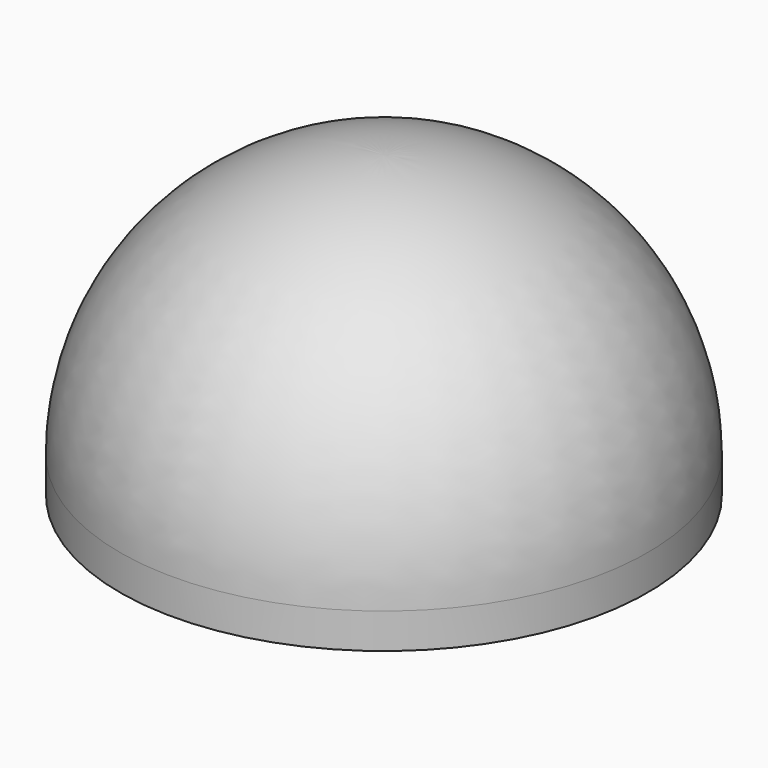
from build123d import *


with BuildPart() as f1:
    # F0 (on Front) → F1 (revolve)
    with BuildSketch(Plane.XZ):
        with BuildLine():
            Line((-2.5, 6), (0, 6))
            Line((0, 6), (0, 8.5))
            ThreePointArc((0, 8.5), (-5.303301, 6.303301), (-7.5, 1))
            Line((-7.5, 1), (-7.5, 0))
            Line((-7.5, 0), (-6, 0))
            Line((-6, 0), (-6, 0.75))
            ThreePointArc((-6, 0.75), (-5.75, 1), (-6, 1.25))
            Line((-6, 1.25), (-6, 4))
            Line((-6, 4), (-4, 4))
            Line((-4, 4), (-4, 0))
            Line((-4, 0), (-2.5, 0))
            Line((-2.5, 0), (-2.5, 6))
        make_face()
    revolve(axis=Axis((0, 0, 7.25), (0, 0, 1)))


solid = f1.part
